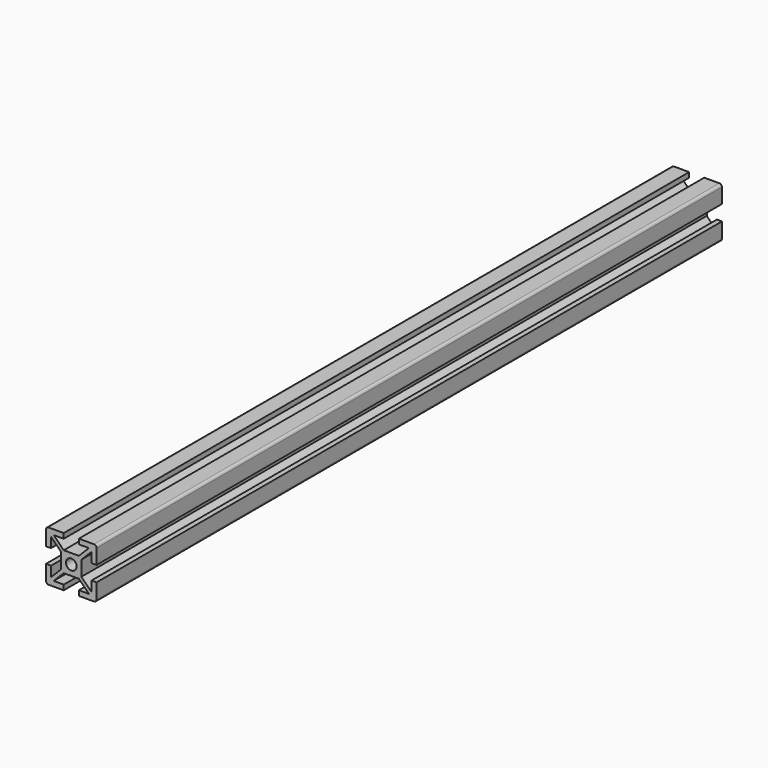
from build123d import *

# Parameters (mm, degrees)
F0_R     = 2.1
F2_DEPTH = 310


with BuildPart() as f2:
    # F0 (on Front) → F2 (new body)
    with BuildSketch(Plane.XZ):
        with BuildLine():
            ThreePointArc((-10, -9), (-9.7071067812, -9.7071067812), (-9, -10))
            Line((-9, -10), (-3, -10))
            Line((-3, -10), (-3, -8))
            Line((-3, -8), (-7, -8))
            Line((-7, -8), (-3, -4))
            Line((-3, -4), (3, -4))
            Line((3, -4), (7, -8))
            Line((7, -8), (3, -8))
            Line((3, -8), (3, -10))
            Line((3, -10), (9, -10))
            ThreePointArc((9, -10), (9.7071067812, -9.7071067812), (10, -9))
            Line((10, -9), (10, -3))
            Line((10, -3), (8, -3))
            Line((8, -3), (8, -7))
            Line((8, -7), (4, -3))
            Line((4, -3), (4, 3))
            Line((4, 3), (8, 7))
            Line((8, 7), (8, 3.0783633339))
            Line((8, 3.0783633339), (10, 3.0783633339))
            Line((10, 3.0783633339), (10, 9))
            ThreePointArc((10, 9), (9.7071067812, 9.7071067812), (9, 10))
            Line((9, 10), (3, 10))
            Line((3, 10), (3, 8))
            Line((3, 8), (7, 8))
            Line((7, 8), (3, 4))
            Line((3, 4), (-3, 4))
            Line((-3, 4), (-7, 8))
            Line((-7, 8), (-3, 8))
            Line((-3, 8), (-3, 10))
            Line((-3, 10), (-9, 10))
            ThreePointArc((-9, 10), (-9.7071067812, 9.7071067812), (-10, 9))
            Line((-10, 9), (-10, 3.0783633339))
            Line((-10, 3.0783633339), (-8.1, 3.0783633339))
            ThreePointArc((-8.1, 3.0783633339), (-8.0292893219, 3.1076526558), (-8, 3.1783633339))
            Line((-8, 3.1783633339), (-8, 7))
            Line((-8, 7), (-4, 3))
            Line((-4, 3), (-4, -3))
            Line((-4, -3), (-8, -7))
            Line((-8, -7), (-8, -3))
            Line((-8, -3), (-10, -3))
            Line((-10, -3), (-10, -9))
        make_face()
        Circle(F0_R, mode=Mode.SUBTRACT)
    extrude(amount=F2_DEPTH)


solid = f2.part
